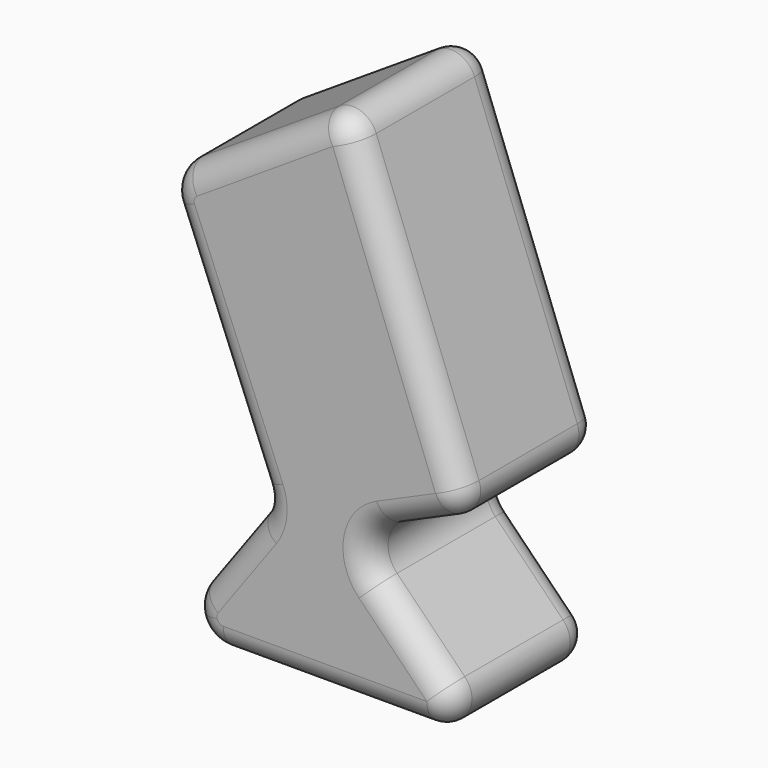
from build123d import *

# Parameters (mm, degrees)
F1_DEPTH = 35.052
F2_R     = 5.08


with BuildPart() as f1:
    # F0 (on Front) → F1 (new body)
    with BuildSketch(Plane.XZ):
        with BuildLine():
            Line((28.661201, -29.157398), (6.442283, -6.553815))
            ThreePointArc((6.442283, -6.553815), (4.73426, -0.90725), (8.408773, 3.707833))
            Line((8.408773, 3.707833), (24.755742, 10.915999))
            Line((24.755742, 10.915999), (0, 76.459773))
            Line((0, 76.459773), (-32.818211, 55.20064))
            ThreePointArc((-32.818211, 55.20064), (-35.422033, 51.780327), (-35.250507, 47.485096))
            Line((-35.250507, 47.485096), (-17.322842, 3.270249))
            ThreePointArc((-17.322842, 3.270249), (-16.904721, 0.111327), (-18.073706, -2.852976))
            Line((-18.073706, -2.852976), (-29.879148, -19.070213))
            ThreePointArc((-29.879148, -19.070213), (-30.967911, -21.541632), (-30.931169, -24.241996))
            ThreePointArc((-30.931169, -24.241996), (-28.695838, -27.778927), (-24.745345, -29.157398))
            Line((-24.745345, -29.157398), (28.661201, -29.157398))
        make_face()
    extrude(amount=F1_DEPTH)

    # F2
    f2_edges = [f1.edges().sort_by_distance(p)[0] for p in [
        (0, -17.526, 76.459773),
        (24.755742, -17.526, 10.915999),
        (-18.073706, -17.526, -2.852976),
        (-29.879148, -17.526, -19.070213),
        (-23.976427, 0, -10.961594),
        (-23.976427, -35.052, -10.961594),
        (28.661201, -17.526, -29.157398),
        (6.442283, -17.526, -6.553815),
        (17.551742, 0, -17.855606),
        (17.551742, -35.052, -17.855606),
        (12.377871, 0, 43.687886),
        (12.377871, -35.052, 43.687886),
    ]]
    fillet(f2_edges, radius=F2_R)


solid = f1.part
